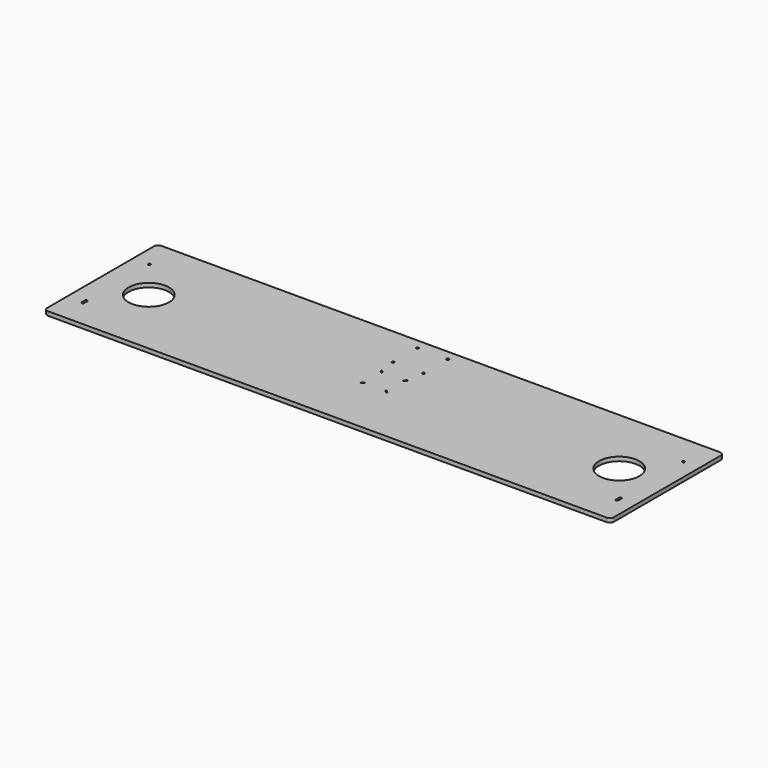
from build123d import *

# Parameters (mm, degrees)
F0_R     = 25.4
F0_R_2   = 1.5
F1_DEPTH = 5.08


with BuildPart() as f1:
    # F0 (on Top) → F1 (new body)
    with BuildSketch(Plane.XY):
        with BuildLine():
            ThreePointArc((355.6, 83.9), (354.135534, 87.435534), (350.6, 88.9))
            Line((350.6, 88.9), (-350.6, 88.9))
            ThreePointArc((-350.6, 88.9), (-354.135534, 87.435534), (-355.6, 83.9))
            Line((-355.6, 83.9), (-355.6, -83.9))
            ThreePointArc((-355.6, -83.9), (-354.135534, -87.435534), (-350.6, -88.9))
            Line((-350.6, -88.9), (350.6, -88.9))
            ThreePointArc((350.6, -88.9), (354.135534, -87.435534), (355.6, -83.9))
            Line((355.6, -83.9), (355.6, 83.9))
        make_face()
        with BuildLine():
            ThreePointArc((-333.7, -53.3), (-335.2, -54.8), (-336.7, -53.3))
            Line((-336.7, -53.3), (-336.7, -48.3))
            ThreePointArc((-336.7, -48.3), (-335.2, -46.8), (-333.7, -48.3))
            Line((-333.7, -48.3), (-333.7, -53.3))
        make_face(mode=Mode.SUBTRACT)
        with BuildLine():
            ThreePointArc((-15.53033, -16.59099), (-16.59099, -16.59099), (-16.59099, -15.53033))
            Line((-16.59099, -15.53033), (-14.46967, -13.40901))
            ThreePointArc((-14.46967, -13.40901), (-13.40901, -13.40901), (-13.40901, -14.46967))
            Line((-13.40901, -14.46967), (-15.53033, -16.59099))
        make_face(mode=Mode.SUBTRACT)
        with BuildLine():
            Line((333.7, -53.3), (333.7, -48.3))
            ThreePointArc((333.7, -48.3), (335.2, -46.8), (336.7, -48.3))
            Line((336.7, -48.3), (336.7, -53.3))
            ThreePointArc((336.7, -53.3), (335.2, -54.8), (333.7, -53.3))
        make_face(mode=Mode.SUBTRACT)
        with BuildLine():
            ThreePointArc((16.59099, -15.53033), (16.59099, -16.59099), (15.53033, -16.59099))
            Line((15.53033, -16.59099), (13.40901, -14.46967))
            ThreePointArc((13.40901, -14.46967), (13.40901, -13.40901), (14.46967, -13.40901))
            Line((14.46967, -13.40901), (16.59099, -15.53033))
        make_face(mode=Mode.SUBTRACT)
        with Locations((-295.2, 0)):
            Circle(F0_R, mode=Mode.SUBTRACT)
        with BuildLine():
            ThreePointArc((-13.40901, 14.46967), (-13.40901, 13.40901), (-14.46967, 13.40901))
            Line((-14.46967, 13.40901), (-16.59099, 15.53033))
            ThreePointArc((-16.59099, 15.53033), (-16.59099, 16.59099), (-15.53033, 16.59099))
            Line((-15.53033, 16.59099), (-13.40901, 14.46967))
        make_face(mode=Mode.SUBTRACT)
        with Locations((-19.05, 38.1)):
            Circle(F0_R_2, mode=Mode.SUBTRACT)
        with Locations((-335.2, 50.8)):
            Circle(F0_R_2, mode=Mode.SUBTRACT)
        with Locations((-19.05, 76.2)):
            Circle(F0_R_2, mode=Mode.SUBTRACT)
        with BuildLine():
            ThreePointArc((14.46967, 13.40901), (13.40901, 13.40901), (13.40901, 14.46967))
            Line((13.40901, 14.46967), (15.53033, 16.59099))
            ThreePointArc((15.53033, 16.59099), (16.59099, 16.59099), (16.59099, 15.53033))
            Line((16.59099, 15.53033), (14.46967, 13.40901))
        make_face(mode=Mode.SUBTRACT)
        with Locations((19.05, 38.1)):
            Circle(F0_R_2, mode=Mode.SUBTRACT)
        with Locations((295.2, 0)):
            Circle(F0_R, mode=Mode.SUBTRACT)
        with Locations((19.05, 76.2)):
            Circle(F0_R_2, mode=Mode.SUBTRACT)
        with Locations((335.2, 50.8)):
            Circle(F0_R_2, mode=Mode.SUBTRACT)
    extrude(amount=F1_DEPTH)


solid = f1.part
